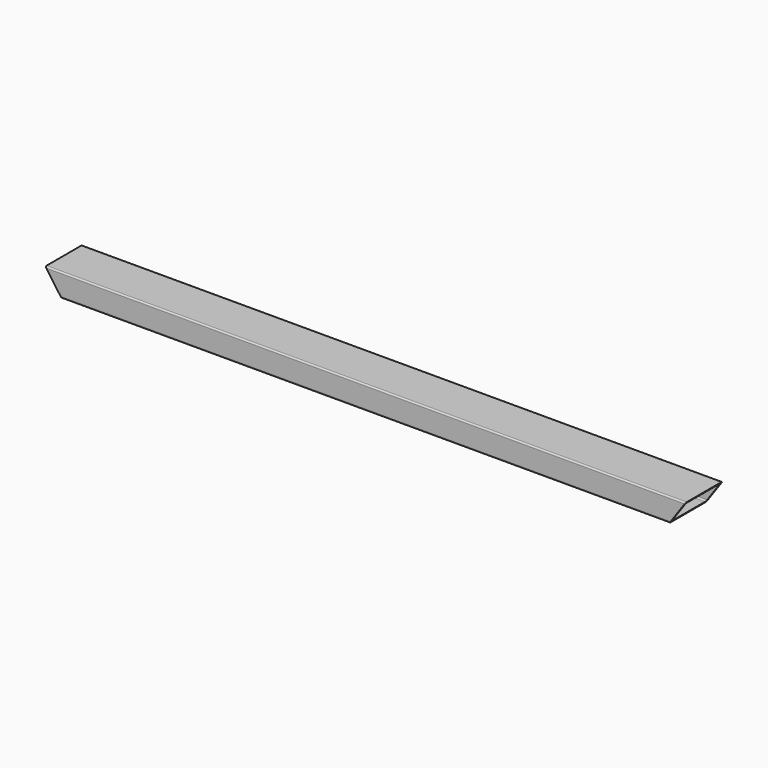
from build123d import *

# Parameters (mm, degrees)
F1_DEPTH      = 1409.446
F3_DEPTH      = 50.801
F3_DEPTH_BACK = 50.801


with BuildPart() as f1:
    # F0 (on Right) → F1 (new body)
    with BuildSketch(Plane.YZ):
        with BuildLine():
            Line((-47.625, -25.4), (47.625, -25.4))
            ThreePointArc((47.625, -25.4), (49.8700640303, -24.4700640303), (50.8, -22.225))
            Line((50.8, -22.225), (50.8, 22.225))
            ThreePointArc((50.8, 22.225), (49.8700640303, 24.4700640303), (47.625, 25.4))
            Line((47.625, 25.4), (-47.625, 25.4))
            ThreePointArc((-47.625, 25.4), (-49.8700640303, 24.4700640303), (-50.8, 22.225))
            Line((-50.8, 22.225), (-50.8, -22.225))
            ThreePointArc((-50.8, -22.225), (-49.8700640303, -24.4700640303), (-47.625, -25.4))
        make_face()
        with BuildLine():
            Line((-44.45, 22.225), (44.45, 22.225))
            ThreePointArc((44.45, 22.225), (46.6950640303, 21.2950640303), (47.625, 19.05))
            Line((47.625, 19.05), (47.625, -19.05))
            ThreePointArc((47.625, -19.05), (46.6950640303, -21.2950640303), (44.45, -22.225))
            Line((44.45, -22.225), (-44.45, -22.225))
            ThreePointArc((-44.45, -22.225), (-46.6950640303, -21.2950640303), (-47.625, -19.05))
            Line((-47.625, -19.05), (-47.625, 19.05))
            ThreePointArc((-47.625, 19.05), (-46.6950640303, 21.2950640303), (-44.45, 22.225))
        make_face(mode=Mode.SUBTRACT)
    extrude(amount=F1_DEPTH)

    # F2 (on Front) → F3 (cut, two sides)
    with BuildSketch(Plane.XZ) as f3_sk:
        Polygon((0, 25.4), (0, -25.4), (35.5705429411, -25.4), align=None)
        Polygon((1409.446, 25.4), (1373.8754570589, -25.4), (1409.446, -25.4), align=None)
    extrude(amount=-F3_DEPTH, mode=Mode.SUBTRACT)
    extrude(f3_sk.sketch, amount=F3_DEPTH_BACK, mode=Mode.SUBTRACT)


solid = f1.part
